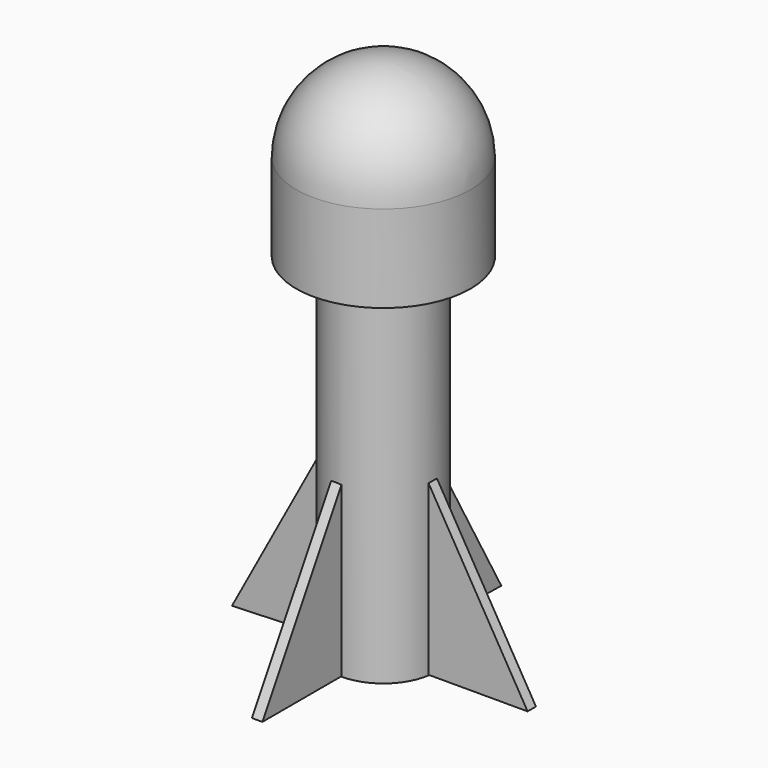
from build123d import *

# Parameters (mm, degrees)
F0_R      = 6.35
F1_DEPTH  = 5.08
F2_T      = -2.54
F3_R      = 6.35
F4_DEPTH  = 7.62
F5_R      = 6.35
F6_R      = 3.81
F7_DEPTH  = 25.4
F9_DEPTH  = 0.762
F11_DEPTH = 0.762


with BuildPart() as f1:
    # F0 (on Top) → F1 (new body)
    with BuildSketch(Plane.XY):
        Circle(F0_R)
    extrude(amount=F1_DEPTH)

    # F2
    f2_openings = [f1.faces().sort_by_distance(p)[0] for p in [
        (0, 0, 5.08),
    ]]
    offset(amount=F2_T, openings=f2_openings)

    # F3 (on face) → F4 (join)
    with BuildSketch(Plane.XY.offset(5.08)):
        Circle(F3_R)
    extrude(amount=F4_DEPTH)

    # F5
    f5_edges = [f1.edges().sort_by_distance(p)[0] for p in [
        (-6.35, 0, 12.7),
    ]]
    fillet(f5_edges, radius=F5_R)

    # F6 (on face) → F7 (join)
    with BuildSketch(Plane(origin=(0, 0, 0), x_dir=(1, 0, 0), z_dir=(0, 0, -1))):
        Circle(F6_R)
    extrude(amount=F7_DEPTH)

    # F8 (on Right) → F9 (join)
    with BuildSketch(Plane.YZ):
        Polygon((3.751557786, -13.0778392777), (3.751557786, -25.3659710288), (10.7411369681, -25.4787057638), align=None)
        Polygon((-11.0167460516, -25.3659710288), (-3.8016969338, -25.3659710288), (-3.8016969338, -13.0778392777), align=None)
    extrude(amount=-F9_DEPTH)

    # F10 (on Front) → F11 (join)
    with BuildSketch(Plane.XZ):
        Polygon((-10.4146469384, -25.4699978977), (-3.6505381577, -25.2445284277), (-3.6505381577, -12.9563966766), align=None)
    extrude(amount=F11_DEPTH)


with BuildPart() as f11:
    # F10 (on Front) → F11, piece 2 (new body)
    with BuildSketch(Plane.XZ):
        Polygon((3.902716795, -12.9563966766), (3.902716795, -25.2445284277), (11.11776568, -25.2445284277), align=None)
    extrude(amount=F11_DEPTH)


solid = Compound([f1.part, f11.part])
